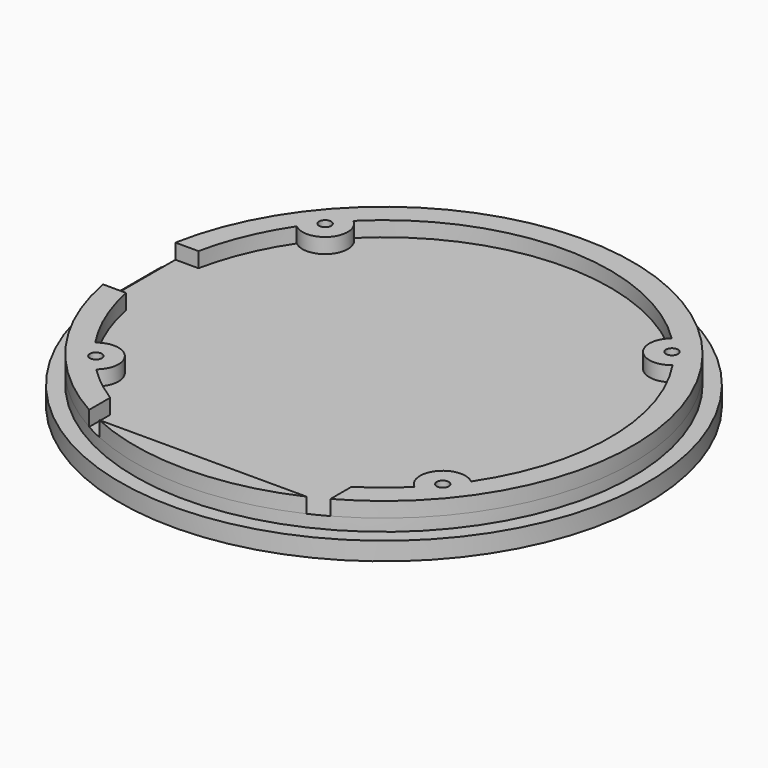
from build123d import *

# Parameters (mm, degrees)
PAD001_DEPTH    = 4
PAD009_DEPTH    = 2
PAD010_DEPTH    = 2.4
SKETCH026_R     = 0.8
POCKET012_DEPTH = 6.001
SKETCH027_R     = 2
POCKET013_DEPTH = 2.4


with BuildPart() as part:
    # Sketch004 → Pad001 (new body)
    with BuildSketch(Plane.XY):
        with BuildLine():
            ThreePointArc((-32.449961, -6), (33, 0), (-32.449961, 6))
            Line((-32.449961, 6), (-32.449961, -6))
        make_face()
    extrude(amount=PAD001_DEPTH)

    # Sketch005 (on Face4 of Pad001) → Pad009 (join)
    with BuildSketch(Plane.XY.offset(4)):
        with BuildLine():
            ThreePointArc((-24.923536, 16.697825), (-20.687115, 17.089356), (-21.102307, 21.323523))
            ThreePointArc((21.102307, 21.323523), (0, 30), (-21.102307, 21.323523))
            ThreePointArc((21.102307, 21.323523), (20.687115, 17.089356), (24.923536, 16.697825))
            ThreePointArc((24.923536, -16.697825), (30, 0), (24.923536, 16.697825))
            ThreePointArc((24.923536, -16.697825), (20.687115, -17.089356), (21.102307, -21.323523))
            ThreePointArc((16, -25.377155), (18.661545, -23.48929), (21.102307, -21.323523))
            Line((16, -28.861739), (16, -25.377155))
            ThreePointArc((16, -28.861739), (19.27396, 26.786461), (-32.449961, 6))
            Line((-32.449961, 6), (-29.393877, 6))
            ThreePointArc((-24.923536, 16.697825), (-27.68043, 11.566927), (-29.393877, 6))
        make_face()
        with BuildLine():
            ThreePointArc((-21.102307, -21.323523), (-20.687115, -17.089356), (-24.923536, -16.697825))
            ThreePointArc((-29.393877, -6), (-27.68043, -11.566927), (-24.923536, -16.697825))
            Line((-32.449961, -6), (-29.393877, -6))
            ThreePointArc((-32.449961, -6), (-26.786461, -19.27396), (-16, -28.861739))
            Line((-16, -25.377155), (-16, -28.861739))
            ThreePointArc((-21.102307, -21.323523), (-18.661545, -23.48929), (-16, -25.377155))
        make_face()
        with BuildLine():
            Line((-13.747727, -30), (13.747727, -30))
            ThreePointArc((-13.747727, -30), (0, -33), (13.747727, -30))
        make_face()
    extrude(amount=PAD009_DEPTH)

    # Sketch018 → Pad010 (join)
    with BuildSketch(Plane.XY):
        with BuildLine():
            ThreePointArc((-34.481879, -6), (35, 0), (-34.481879, 6))
            Line((-34.481879, 6), (-34.481879, -6))
        make_face()
    extrude(amount=PAD010_DEPTH)

    # Sketch026 → Pocket012 (cut, through all)
    with BuildSketch(Plane.XY):
        with Locations((-23, 19)):
            Circle(SKETCH026_R)
        with Locations((23, 19)):
            Circle(SKETCH026_R)
        with Locations((-23, -19)):
            Circle(SKETCH026_R)
        with Locations((23, -19)):
            Circle(SKETCH026_R)
    extrude(amount=POCKET012_DEPTH, mode=Mode.SUBTRACT)

    # Sketch027 → Pocket013 (cut)
    with BuildSketch(Plane.XY):
        with Locations((-23, 19)):
            Circle(SKETCH027_R)
        with Locations((23, 19)):
            Circle(SKETCH027_R)
        with Locations((-23, -19)):
            Circle(SKETCH027_R)
        with Locations((23, -19)):
            Circle(SKETCH027_R)
    extrude(amount=POCKET013_DEPTH, mode=Mode.SUBTRACT)


solid = part.part
